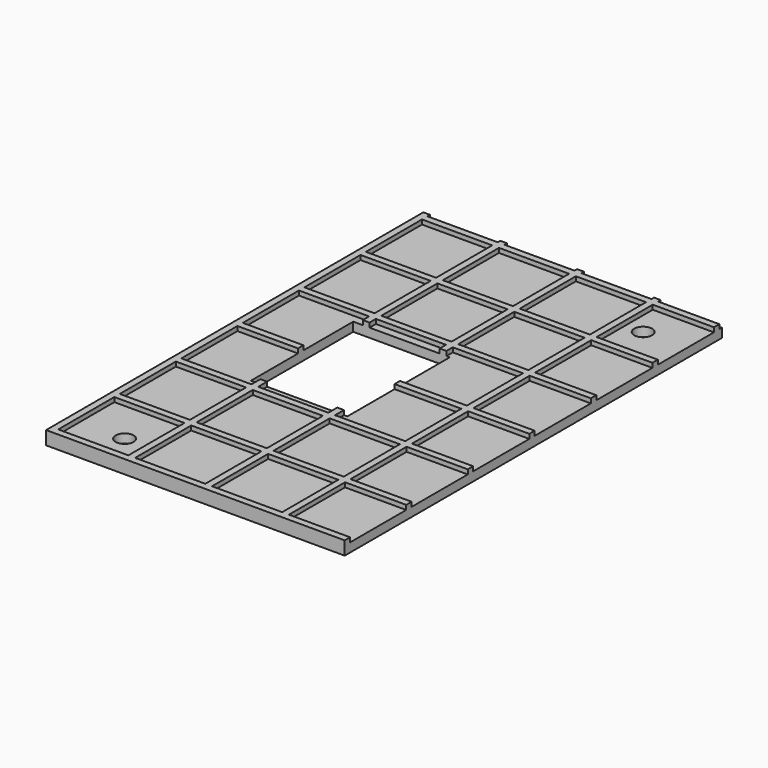
from build123d import *

# Parameters (mm, degrees)
SKETCH_W                      = 66.5
SKETCH_H                      = 105
SKETCH_R                      = 2
SKETCH_W_2                    = 21.5
SKETCH_H_2                    = 28.5
PAD_DEPTH                     = 2
SKETCH002_W                   = 18.625
SKETCH002_H                   = 18.625
SKETCH002_W_2                 = 15.625
SKETCH002_H_2                 = 15.625
PAD002_DEPTH                  = 1
SKETCH002_LINEARPATTERN_2_W   = 18.625
SKETCH002_LINEARPATTERN_2_H   = 18.625
SKETCH002_LINEARPATTERN_2_W_2 = 15.625
SKETCH002_LINEARPATTERN_2_H_2 = 15.625
PAD002_LINEARPATTERN_2_DEPTH  = 1
SKETCH002_LINEARPATTERN_3_W   = 18.625
SKETCH002_LINEARPATTERN_3_H   = 18.625
SKETCH002_LINEARPATTERN_3_W_2 = 15.625
SKETCH002_LINEARPATTERN_3_H_2 = 15.625
PAD002_LINEARPATTERN_3_DEPTH  = 1
SKETCH002_LINEARPATTERN_4_W   = 18.625
SKETCH002_LINEARPATTERN_4_H   = 18.625
SKETCH002_LINEARPATTERN_4_W_2 = 15.625
SKETCH002_LINEARPATTERN_4_H_2 = 15.625
PAD002_LINEARPATTERN_4_DEPTH  = 1
LINEARPATTERN002_COUNT        = 9
LINEARPATTERN002_PITCH        = 17.13
SKETCH003_W                   = 150.48745
SKETCH003_H                   = 190.076035
SKETCH003_W_2                 = 66.5
SKETCH003_H_2                 = 105
POCKET_DEPTH                  = 5


with BuildPart() as part:
    # Sketch (on XY_Plane of Origin) → Pad (new body)
    with BuildSketch(Plane.XY):
        Rectangle(SKETCH_W, SKETCH_H)
        with Locations((-21.75, -45)):
            Circle(SKETCH_R, mode=Mode.SUBTRACT)
        with Locations((23.55, 42.7)):
            Circle(SKETCH_R, mode=Mode.SUBTRACT)
        with Locations((-7.5, 0)):
            Rectangle(SKETCH_W_2, SKETCH_H_2, mode=Mode.SUBTRACT)
    extrude(amount=PAD_DEPTH)

    # Sketch002 (on Face12 of Pad) → Pad002 (join)
    with BuildSketch(Plane.XY.offset(2)):
        with Locations((-23.9375, -43.1875)):
            Rectangle(SKETCH002_W, SKETCH002_H)
        with Locations((-23.9375, -43.1875)):
            Rectangle(SKETCH002_W_2, SKETCH002_H_2, mode=Mode.SUBTRACT)
    pad002 = extrude(amount=PAD002_DEPTH)

    # Sketch002 LinearPattern 2 → Pad002 LinearPattern 2 (add)
    with BuildSketch(Plane(origin=(17.125, 0, 2), x_dir=(1, 0, 0), z_dir=(0, 0, 1))):
        with Locations((-23.9375, -43.1875)):
            Rectangle(SKETCH002_LINEARPATTERN_2_W, SKETCH002_LINEARPATTERN_2_H)
        with Locations((-23.9375, -43.1875)):
            Rectangle(SKETCH002_LINEARPATTERN_2_W_2, SKETCH002_LINEARPATTERN_2_H_2, mode=Mode.SUBTRACT)
    pad002_linearpattern_2 = extrude(amount=PAD002_LINEARPATTERN_2_DEPTH)

    # Sketch002 LinearPattern 3 → Pad002 LinearPattern 3 (add)
    with BuildSketch(Plane(origin=(34.25, 0, 2), x_dir=(1, 0, 0), z_dir=(0, 0, 1))):
        with Locations((-23.9375, -43.1875)):
            Rectangle(SKETCH002_LINEARPATTERN_3_W, SKETCH002_LINEARPATTERN_3_H)
        with Locations((-23.9375, -43.1875)):
            Rectangle(SKETCH002_LINEARPATTERN_3_W_2, SKETCH002_LINEARPATTERN_3_H_2, mode=Mode.SUBTRACT)
    pad002_linearpattern_3 = extrude(amount=PAD002_LINEARPATTERN_3_DEPTH)

    # Sketch002 LinearPattern 4 → Pad002 LinearPattern 4 (add)
    with BuildSketch(Plane(origin=(51.375, 0, 2), x_dir=(1, 0, 0), z_dir=(0, 0, 1))):
        with Locations((-23.9375, -43.1875)):
            Rectangle(SKETCH002_LINEARPATTERN_4_W, SKETCH002_LINEARPATTERN_4_H)
        with Locations((-23.9375, -43.1875)):
            Rectangle(SKETCH002_LINEARPATTERN_4_W_2, SKETCH002_LINEARPATTERN_4_H_2, mode=Mode.SUBTRACT)
    pad002_linearpattern_4 = extrude(amount=PAD002_LINEARPATTERN_4_DEPTH)

    # LinearPattern002: Pad002, Pad002 LinearPattern 2, Pad002 LinearPattern 3, Pad002 LinearPattern 4 ×9
    with Locations(*[(0, i * LINEARPATTERN002_PITCH, 0) for i in range(1, LINEARPATTERN002_COUNT)]):
        add(pad002)
        add(pad002_linearpattern_2)
        add(pad002_linearpattern_3)
        add(pad002_linearpattern_4)

    # Sketch003 (on Face131 of MultiTransform) → Pocket (cut)
    with BuildSketch(Plane.XY.offset(3)):
        with Locations((-0.924236, 18.80619)):
            Rectangle(SKETCH003_W, SKETCH003_H)
        Rectangle(SKETCH003_W_2, SKETCH003_H_2, mode=Mode.SUBTRACT)
        Polygon((-16.125, 14.25), (-14.625, 14.25), (1, 14.25), (2.5, 14.25), (3.25, 14.25), (3.25, 0.39), (3.25, -1.115), (3.25, -14.25), (2.5, -14.25), (1, -14.25), (-14.625, -14.25), (-16.125, -14.25), (-18.25, -14.25), (-18.25, -1.115), (-18.25, 0.39), (-18.25, 14.25), align=None)
    extrude(amount=-POCKET_DEPTH, mode=Mode.SUBTRACT)


solid = part.part
